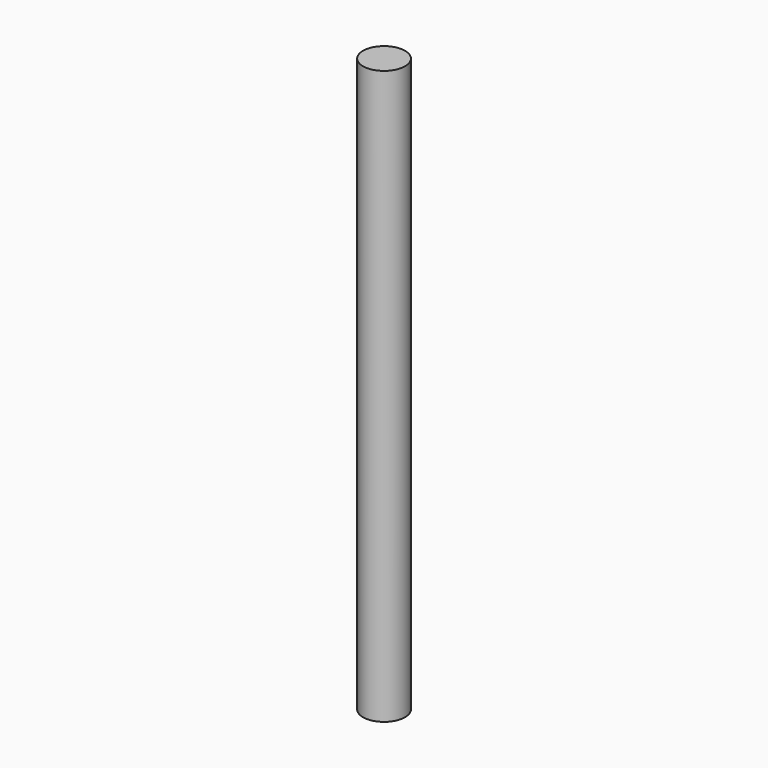
from build123d import *

# Parameters (mm, degrees)
SKETCH_R  = 5.5
PAD_DEPTH = 150


with BuildPart() as part:
    # Sketch → Pad (new body)
    with BuildSketch(Plane.XY):
        Circle(SKETCH_R)
    extrude(amount=PAD_DEPTH)


solid = part.part
